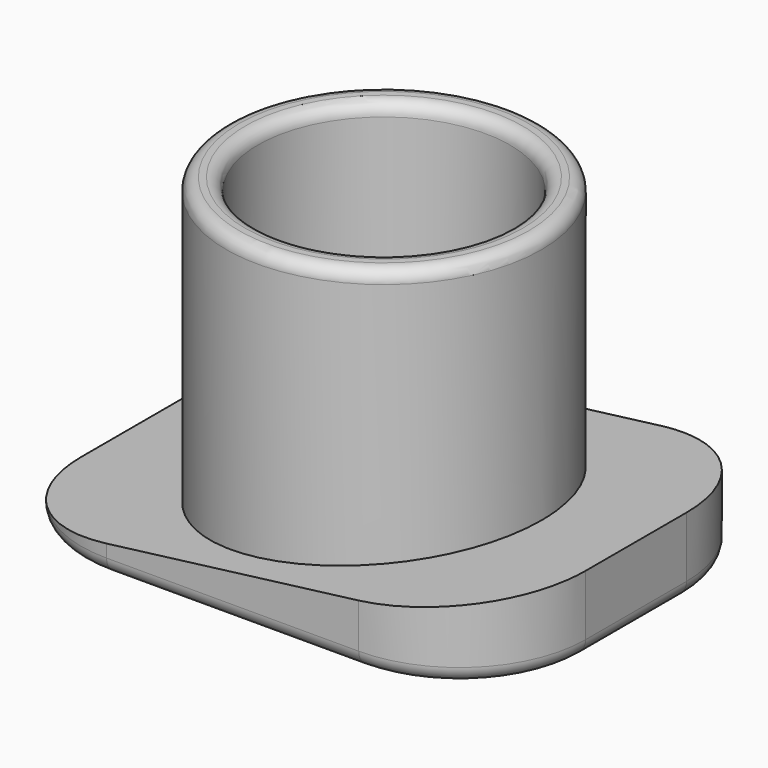
from build123d import *

# Parameters (mm, degrees)
F0_W     = 8
F0_H     = 6
F0_R     = 2.5
F1_DEPTH = 5
F3_DEPTH = 25
F0_R_2   = 2
F4_DEPTH = 5
F5_R     = 2
F6_R     = 0.25
F7_R     = 0.2


with BuildPart() as f1:
    # F0 (on Top) → F1 (new body)
    with BuildSketch(Plane.XY):
        Rectangle(F0_W, F0_H)
        Circle(F0_R, mode=Mode.SUBTRACT)
    extrude(amount=F1_DEPTH)

    # F2 (on face) → F3 (cut)
    with BuildSketch(Plane.XZ.offset(3)):
        Polygon((-4, 5), (-4, 0.2), (4, 1.210635), (4, 5), align=None)
    extrude(amount=-F3_DEPTH, mode=Mode.SUBTRACT)

    # F0 (on Top) → F4 (join)
    with BuildSketch(Plane.XY):
        Circle(F0_R)
        Circle(F0_R_2, mode=Mode.SUBTRACT)
    extrude(amount=F4_DEPTH)

    # F5
    f5_edges = [f1.edges().sort_by_distance(p)[0] for p in [
        (4, 3, 0.605318),
        (-4, 3, 0.1),
        (-4, -3, 0.1),
        (4, -3, 0.605318),
    ]]
    fillet(f5_edges, radius=F5_R)

    # F6
    f6_edges = [f1.edges().sort_by_distance(p)[0] for p in [
        (0, 3, 0),
        (3.414214, 2.414214, 0),
        (-3.414214, 2.414214, 0),
        (4, 0, 0),
        (-4, 0, 0),
        (3.414214, -2.414214, 0),
        (-3.414214, -2.414214, 0),
        (0, -3, 0),
        (-2, 0, 0),
    ]]
    fillet(f6_edges, radius=F6_R)

    # F7
    f7_edges = [f1.edges().sort_by_distance(p)[0] for p in [
        (-2, 0, 5),
        (-2.5, 0, 5),
    ]]
    fillet(f7_edges, radius=F7_R)


solid = f1.part
